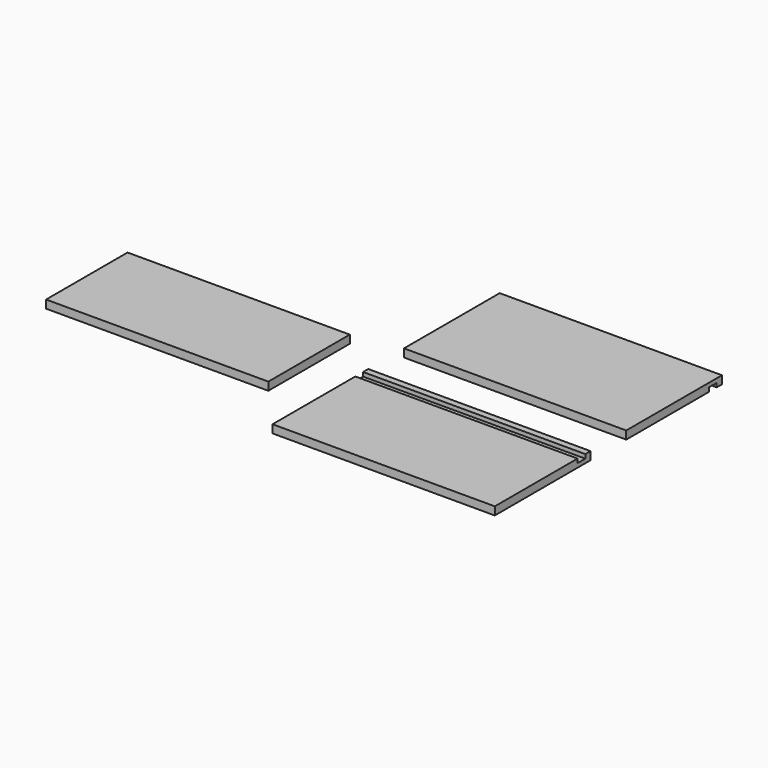
from build123d import *

# Parameters (mm, degrees)
F0_W     = 174.625
F0_H     = 93.98
F1_DEPTH = 6.35
F2_W     = 174.625
F2_H     = 80.01
F3_DEPTH = 6.35
F4_W     = 174.625
F4_H     = 7.62
F5_DEPTH = 3.175
F6_W     = 174.625
F6_H     = 7.62
F7_DEPTH = 3.175


with BuildPart() as f1:
    # F0 (on Top) → F1 (new body)
    with BuildSketch(Plane.XY):
        with Locations((-2.654361, -14.38745)):
            Rectangle(F0_W, F0_H)
        with Locations((-2.654361, 114.706321)):
            Rectangle(F0_W, F0_H)
    extrude(amount=-F1_DEPTH)

    # F4 (on face) → F5 (cut)
    with BuildSketch(Plane.XY):
        with Locations((-2.654361, 23.71255)):
            Rectangle(F4_W, F4_H)
    extrude(amount=-F5_DEPTH, mode=Mode.SUBTRACT)

    # F6 (on face) → F7 (cut)
    with BuildSketch(Plane(origin=(0, 0, -6.35), x_dir=(1, 0, 0), z_dir=(0, 0, -1))):
        with Locations((-2.654361, -152.806321)):
            Rectangle(F6_W, F6_H)
    extrude(amount=-F7_DEPTH, mode=Mode.SUBTRACT)


with BuildPart() as f3:
    # F2 (on Top) → F3 (new body)
    with BuildSketch(Plane.XY):
        with Locations((-214.679427, 21.230439)):
            Rectangle(F2_W, F2_H)
    extrude(amount=-F3_DEPTH)


solid = Compound([f1.part, f3.part])
